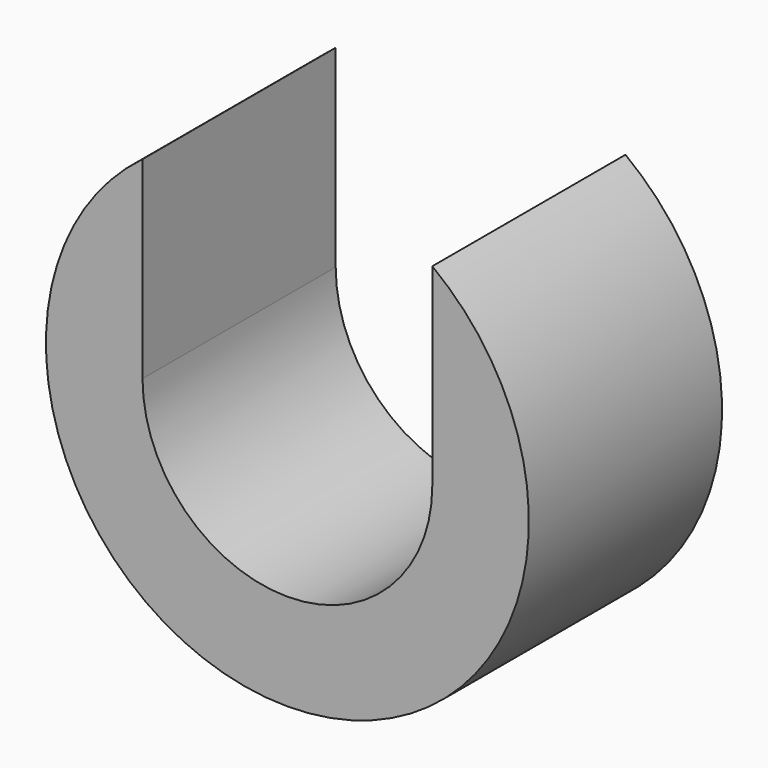
from build123d import *

# Parameters (mm, degrees)
F0_R     = 5
F1_DEPTH = 5
F3_DEPTH = 5.001


with BuildPart() as f1:
    # F0 (on Front) → F1 (new body)
    with BuildSketch(Plane.XZ):
        Circle(F0_R)
    extrude(amount=F1_DEPTH)

    # F2 (on face) → F3 (cut, through all)
    with BuildSketch(Plane.XZ.offset(5)):
        with BuildLine():
            Line((-3, 0), (3, 0))
            Line((3, 0), (3, 4))
            ThreePointArc((3, 4), (0, 5), (-3, 4))
            Line((-3, 4), (-3, 0))
        make_face()
        with BuildLine():
            ThreePointArc((-3, 0), (0, -3), (3, 0))
            Line((3, 0), (-3, 0))
        make_face()
    extrude(amount=-F3_DEPTH, mode=Mode.SUBTRACT)


solid = f1.part
